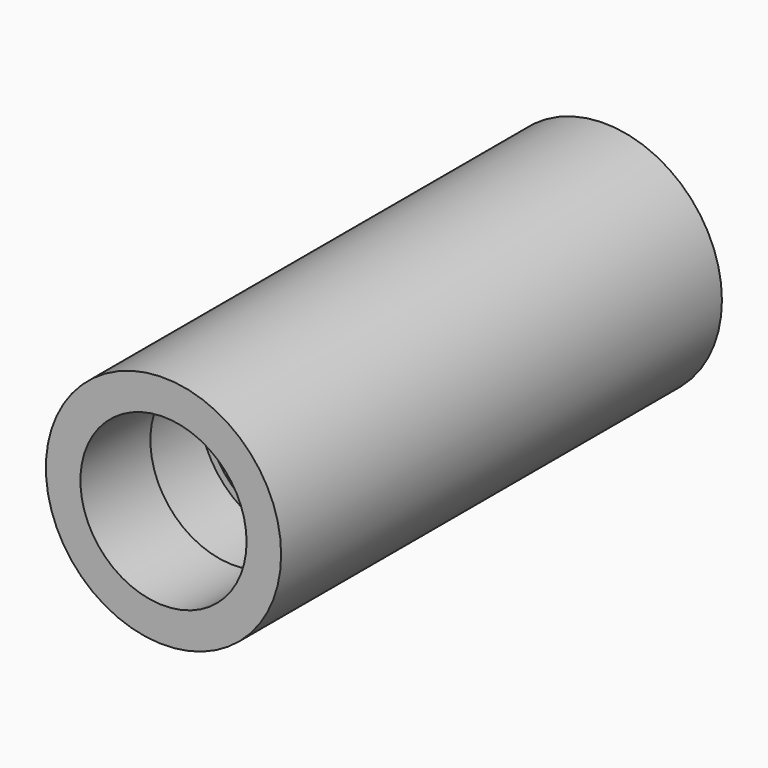
from build123d import *

# Parameters (mm, degrees)
F0_R     = 13.45
F0_R_2   = 9.5
F1_DEPTH = 63
F2_W     = 8
F2_H     = 0.8


with BuildPart() as f1:
    # F0 (on Front) → F1 (new body)
    with BuildSketch(Plane.XZ):
        Circle(F0_R)
        Circle(F0_R_2, mode=Mode.SUBTRACT)
    extrude(amount=F1_DEPTH)

    # F2 (on Right) → F3 (revolve, cut)
    with BuildSketch(Plane.YZ):
        with Locations((-49, 9.9)):
            Rectangle(F2_W, F2_H)
    revolve(axis=Axis((0, -31.5, 0), (0, -1, 0)), mode=Mode.SUBTRACT)


solid = f1.part
